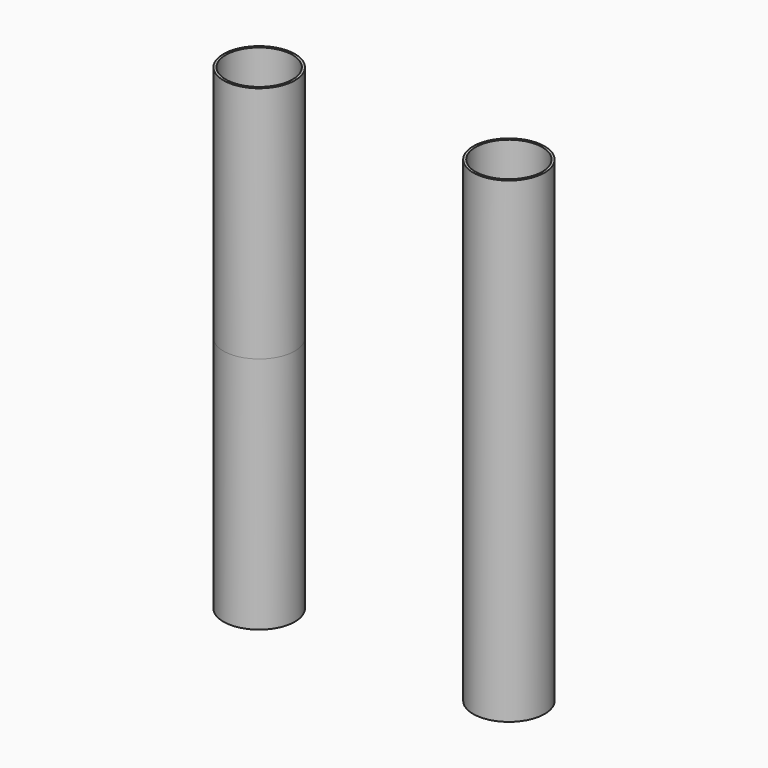
from build123d import *

# Parameters (mm, degrees)
F0_R     = 7.5
F0_R_2   = 7
F1_DEPTH = 50


with BuildPart() as f1:
    # F0 (on Top) → F1 (new body, symmetric)
    with BuildSketch(Plane.XY):
        with Locations((-26.2, 0)):
            Circle(F0_R)
        with Locations((-26.2, 0)):
            Circle(F0_R_2, mode=Mode.SUBTRACT)
        with Locations((26.2, 0)):
            Circle(F0_R)
        with Locations((26.2, 0)):
            Circle(F0_R_2, mode=Mode.SUBTRACT)
    extrude(amount=F1_DEPTH, both=True)


solid = f1.part
